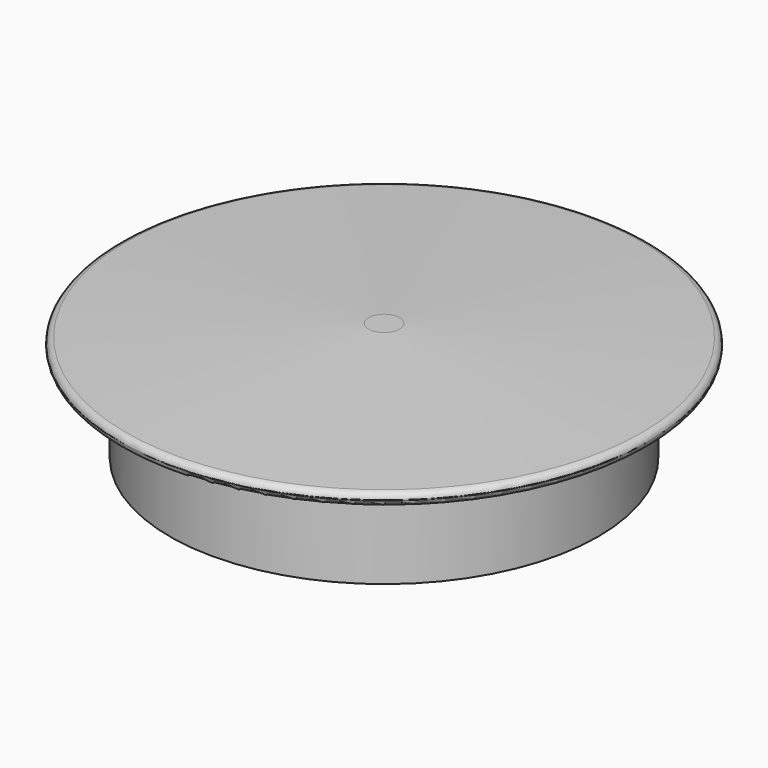
from build123d import *

# Parameters (mm, degrees)
F0_R      = 34.5
F1_DEPTH  = 15
F2_T      = -2.5
F3_R      = 42.5
F3_R_2    = 34.5
F4_DEPTH  = 2
F4_FACE_R = 42.5
F6_R      = 2.5
F8_R      = 1
F9_R      = 1


with BuildPart() as f1:
    # F0 (on Top) → F1 (new body)
    with BuildSketch(Plane.XY):
        Circle(F0_R)
    extrude(amount=F1_DEPTH)

    # F2
    f2_openings = [f1.faces().sort_by_distance(p)[0] for p in [
        (0, 0, 0),
    ]]
    offset(amount=F2_T, openings=f2_openings)

    # F3 (on face) → F4 (join)
    with BuildSketch(Plane.XY.offset(15)):
        Circle(F3_R)
        Circle(F3_R_2, mode=Mode.SUBTRACT)
        Circle(F3_R_2)
    extrude(amount=F4_DEPTH)

    # F4_face (on face) → F7 section 0
    with BuildSketch(Plane.XY.offset(17)):
        Circle(F4_FACE_R)
    # F6 (on offset) → F7 section 1
    with BuildSketch(Plane.XY.offset(19)):
        Circle(F6_R)
    loft()

    # F8
    f8_edges = [f1.edges().sort_by_distance(p)[0] for p in [
        (-42.5, 0, 17),
    ]]
    fillet(f8_edges, radius=F8_R)

    # F9
    f9_edges = [f1.edges().sort_by_distance(p)[0] for p in [
        (-42.5, 0, 15),
    ]]
    fillet(f9_edges, radius=F9_R)


solid = f1.part
